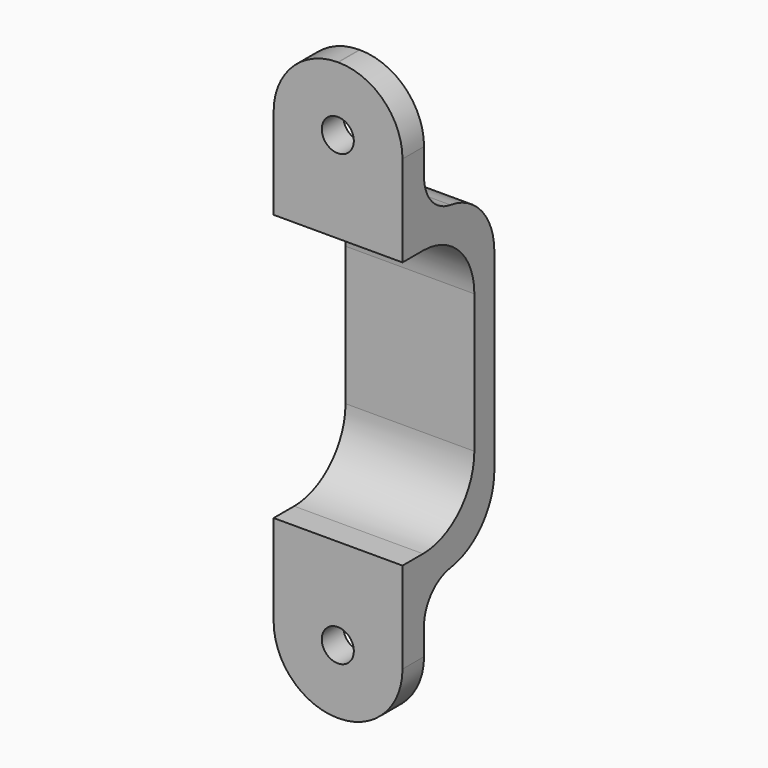
from build123d import *

# Parameters (mm, degrees)
F0_W          = 10.0419273615
F0_H          = 2.1
F0_H_2        = 6.8497342706
F1_DEPTH      = 25
F3_DEPTH      = 10
F3_DEPTH_BACK = 35
F4_W          = 7
F4_H          = 20.8
F5_DEPTH      = 10.0429273615
F6_R          = 1.25
F7_DEPTH      = 25
F8_R          = 5
F9_R          = 3


with BuildPart() as f1:
    # F0 (on Top) → F1 (new body)
    with BuildSketch(Plane.XY):
        with Locations((14.1209636807, 1.05)):
            Rectangle(F0_W, F0_H)
        with Locations((14.1209636807, 5.5248671353)):
            Rectangle(F0_W, F0_H_2)
    extrude(amount=F1_DEPTH)

    # F0 (on Top) → F3 (join, two sides)
    with BuildSketch(Plane.XY) as f3_sk:
        with Locations((14.1209636807, 1.05)):
            Rectangle(F0_W, F0_H)
    extrude(amount=-F3_DEPTH)
    extrude(f3_sk.sketch, amount=F3_DEPTH_BACK)

    # F4 (on offset) → F5 (cut, through all)
    with BuildSketch(Plane.YZ.offset(19.1419273615)):
        with Locations((3.5, 12.5)):
            Rectangle(F4_W, F4_H)
    extrude(amount=-F5_DEPTH, mode=Mode.SUBTRACT)

    # F6 (on Front) → F7 (cut)
    with BuildSketch(Plane.XZ):
        with Locations((14.1, 30)):
            Circle(F6_R)
        with Locations((14.1, -5)):
            Circle(F6_R)
    extrude(amount=-F7_DEPTH, mode=Mode.SUBTRACT)

    # F8
    f8_edges = [f1.edges().sort_by_distance(p)[0] for p in [
        (19.141927, 1.05, 35),
        (9.1, 1.05, 35),
        (9.1, 1.05, -10),
        (19.141927, 1.05, -10),
        (14.120964, 7, 2.1),
        (14.120964, 7, 22.9),
        (14.120964, 8.949734, 0),
        (14.120964, 8.949734, 25),
    ]]
    fillet(f8_edges, radius=F8_R)

    # F9
    f9_edges = [f1.edges().sort_by_distance(p)[0] for p in [
        (14.120964, 2.1, 0),
        (14.120964, 2.1, 25),
    ]]
    fillet(f9_edges, radius=F9_R)


solid = f1.part
